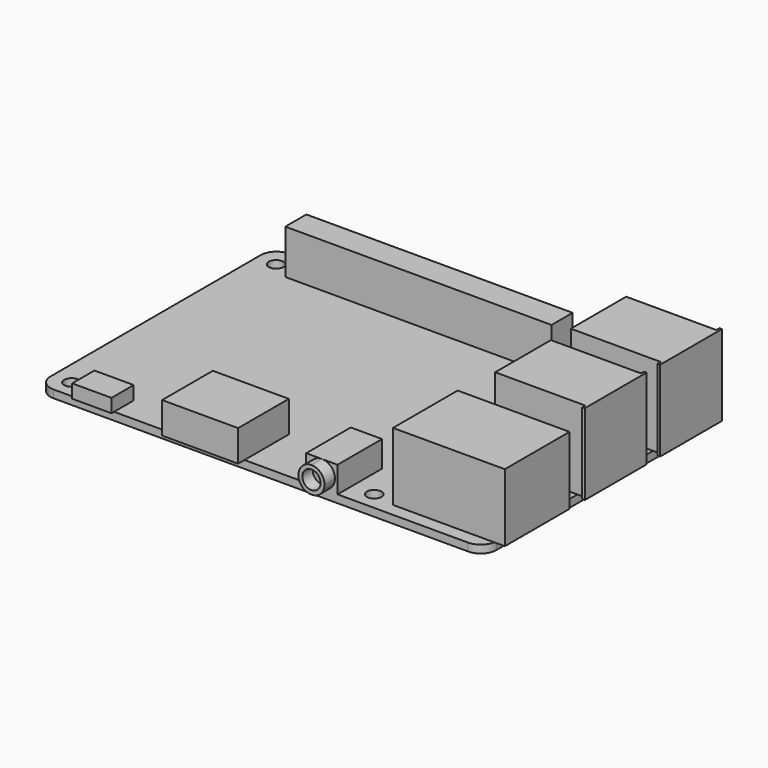
from build123d import *

# Parameters (mm, degrees)
F0_W      = 85.4666158557
F0_H      = 56.3820376992
F1_DEPTH  = 1.5
F2_R      = 3
F3_W      = 51.0251373053
F3_H      = 5.0469487906
F4_DEPTH  = 8.5
F5_W      = 2.0034983754
F5_H      = 13.3438147604
F5_W_2    = 15.7416835427
F6_DEPTH  = 15.5
F7_DEPTH  = 13
F8_W      = 0.4854053259
F8_H      = 14.7926211357
F8_H_2    = 14.7911831737
F9_DEPTH  = 15.5
F10_W     = 14.5616829395
F10_H     = 12.1452622116
F11_DEPTH = 6
F12_W     = 6
F12_H     = 10.663215287
F13_DEPTH = 5
F14_R     = 1.75
F15_DEPTH = 2.5
F16_W     = 7.5255241245
F16_H     = 5.3236111999
F17_DEPTH = 2.6
F18_R     = 1.4
F19_DEPTH = 25


with BuildPart() as f1:
    # F0 (on Top) → F1 (new body)
    with BuildSketch(Plane.XY):
        with Locations((60.1496808231, 47.3746545613)):
            Rectangle(F0_W, F0_H)
    extrude(amount=F1_DEPTH)

    # F2
    f2_edges = [f1.edges().sort_by_distance(p)[0] for p in [
        (102.882989, 75.565673, 0.75),
        (17.416373, 75.565673, 0.75),
        (17.416373, 19.183636, 0.75),
        (102.882989, 19.183636, 0.75),
    ]]
    fillet(f2_edges, radius=F2_R)

    # F3 (on face) → F4 (join)
    with BuildSketch(Plane.XY.offset(1.5)):
        with Locations((50.2348765731, 71.8340054154)):
            Rectangle(F3_W, F3_H)
    extrude(amount=F4_DEPTH)

    # F5 (on face) → F6 (join)
    with BuildSketch(Plane.XY.offset(1.5)):
        with Locations((103.8847379386, 48.2480246574)):
            Rectangle(F5_W, F5_H)
        with Locations((95.0121469796, 48.2480246574)):
            Rectangle(F5_W_2, F5_H)
        with BuildLine():
            Line((104.8864871264, 72.9445666075), (102.8589658922, 72.9445666075))
            ThreePointArc((102.8589658922, 72.9445666075), (102.8769770128, 72.7555004059), (102.8829887509, 72.5656734109))
            Line((102.8829887509, 72.5656734109), (102.8829887509, 59.670612216))
            Line((102.8829887509, 59.670612216), (104.8864871264, 59.670612216))
            Line((104.8864871264, 59.670612216), (104.8864871264, 72.9445666075))
        make_face()
        with BuildLine():
            Line((102.8589658922, 72.9445666075), (87.1413052082, 72.9445666075))
            Line((87.1413052082, 72.9445666075), (87.1413052082, 59.670612216))
            Line((87.1413052082, 59.670612216), (102.8829887509, 59.670612216))
            Line((102.8829887509, 59.670612216), (102.8829887509, 72.5656734109))
            ThreePointArc((102.8829887509, 72.5656734109), (102.8769770128, 72.7555004059), (102.8589658922, 72.9445666075))
        make_face()
    extrude(amount=F6_DEPTH)

    # F5 (on face) → F7 (join)
    with BuildSketch(Plane.XY.offset(1.5)):
        with BuildLine():
            Line((102.8829887509, 22.1836357117), (102.8829887509, 37.1904186904))
            Line((102.8829887509, 37.1904186904), (83.4540203214, 37.1904186904))
            Line((83.4540203214, 37.1904186904), (83.4540203214, 21.6917544603))
            Line((83.4540203214, 21.6917544603), (102.8423895069, 21.6917544603))
            ThreePointArc((102.8423895069, 21.6917544603), (102.8728217118, 21.9368587557), (102.8829887509, 22.1836357117))
        make_face()
        with BuildLine():
            Line((104.8864871264, 37.1904186904), (102.8829887509, 37.1904186904))
            Line((102.8829887509, 37.1904186904), (102.8829887509, 22.1836357117))
            ThreePointArc((102.8829887509, 22.1836357117), (102.8728217118, 21.9368587557), (102.8423895069, 21.6917544603))
            Line((102.8423895069, 21.6917544603), (104.8864871264, 21.6917544603))
            Line((104.8864871264, 21.6917544603), (104.8864871264, 37.1904186904))
        make_face()
    extrude(amount=F7_DEPTH)

    # F8 (on face) → F9 (join)
    with BuildSketch(Plane.XY.offset(17)):
        with Locations((104.6437844634, 66.3045793772)):
            Rectangle(F8_W, F8_H)
        with Locations((104.6437844634, 48.2392385602)):
            Rectangle(F8_W, F8_H_2)
    extrude(amount=-F9_DEPTH)

    # F10 (on face) → F11 (join)
    with BuildSketch(Plane.XY.offset(1.5)):
        with Locations((49.7219525278, 23.7262044102)):
            Rectangle(F10_W, F10_H)
    extrude(amount=F11_DEPTH)

    # F12 (on face) → F13 (join)
    with BuildSketch(Plane.XY.offset(1.5)):
        with Locations((71.8380571604, 24.5152433552)):
            Rectangle(F12_W, F12_H)
    extrude(amount=F13_DEPTH)

    # F14 (on face) → F15 (join)
    with BuildSketch(Plane.XZ.offset(-19.1836357117)):
        with BuildLine():
            ThreePointArc((71.8380571604, 6.5), (70.0702902074, 2.232233047), (74.3380571604, 4))
            ThreePointArc((74.3380571604, 4), (73.6058241133, 5.767766953), (71.8380571604, 6.5))
        make_face()
        with Locations((71.8380571604, 4)):
            Circle(F14_R, mode=Mode.SUBTRACT)
    extrude(amount=F15_DEPTH)

    # F16 (on face) → F17 (join)
    with BuildSketch(Plane.XY.offset(1.5)):
        with Locations((28.2411361113, 21.2340727448)):
            Rectangle(F16_W, F16_H)
    extrude(amount=F17_DEPTH)

    # F18 (on face) → F19 (cut)
    with BuildSketch(Plane.XY.offset(1.5)):
        with Locations((79.0960954428, 71.6403754205)):
            Circle(F18_R)
        with Locations((79.0960954428, 22.6403754205)):
            Circle(F18_R)
        with Locations((21.0960954428, 22.6403754205)):
            Circle(F18_R)
        with Locations((21.0960954428, 71.6403754205)):
            Circle(F18_R)
    extrude(amount=-F19_DEPTH, mode=Mode.SUBTRACT)


solid = f1.part
